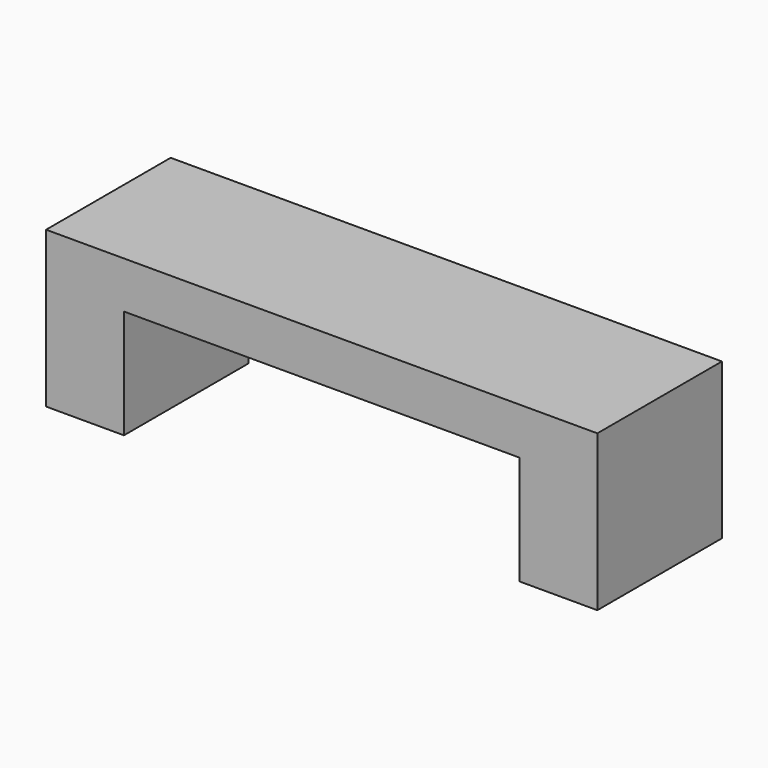
from build123d import *

# Parameters (mm, degrees)
F0_W     = 5
F0_H     = 10
F1_DEPTH = 10
F2_W     = 10
F2_H     = 3
F3_DEPTH = 12.7


with BuildPart() as f1:
    # F0 (on Top) → F1 (new body)
    with BuildSketch(Plane.XY):
        with Locations((-15.2, -12.655717)):
            Rectangle(F0_W, F0_H)
    extrude(amount=F1_DEPTH)

    # F2 (on face) → F3 (join, through all)
    with BuildSketch(Plane.YZ.offset(-12.7)):
        with Locations((-12.655717, 8.5)):
            Rectangle(F2_W, F2_H)
    extrude(amount=F3_DEPTH)

    # F4: F1 across plane


with BuildPart() as f1_1:
    add(f1.part)
    add(f1.part.mirror(Plane.YZ))


solid = f1_1.part
